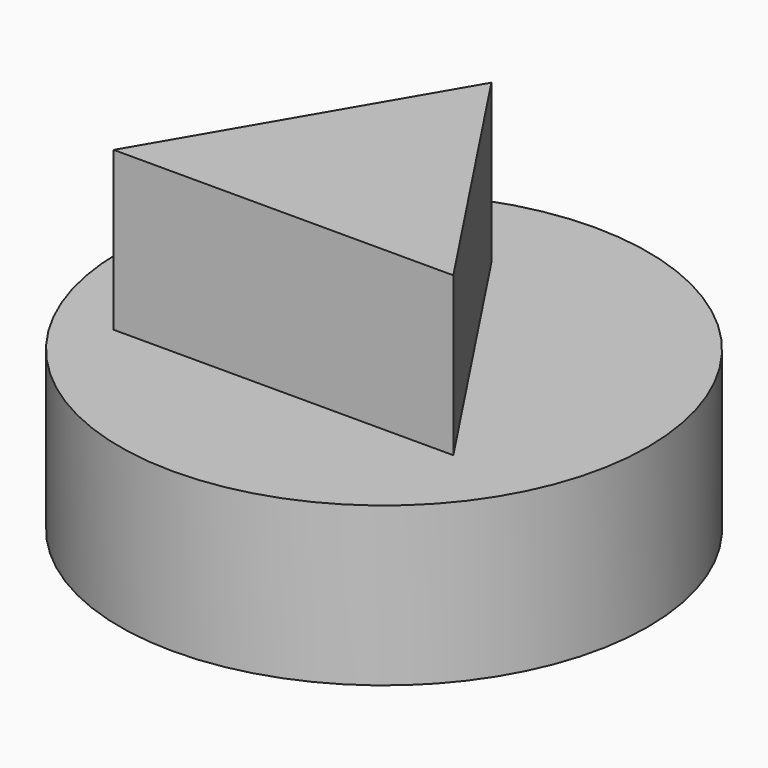
from build123d import *

# Parameters (mm, degrees)
F0_R     = 12.7
F1_DEPTH = 7.62
F3_DEPTH = 7.62


with BuildPart() as f1:
    # F0 (on Top) → F1 (new body)
    with BuildSketch(Plane.XY):
        Circle(F0_R)
    extrude(amount=F1_DEPTH)


with BuildPart() as f3:
    # F2 (on face) → F3 (new body)
    with BuildSketch(Plane.XY.offset(7.62)):
        Polygon((7.411064, -5.094936), (-1.266768, 8.04141), (-8.927681, -5.094936), align=None)
    extrude(amount=F3_DEPTH)


solid = Compound([f1.part, f3.part])
